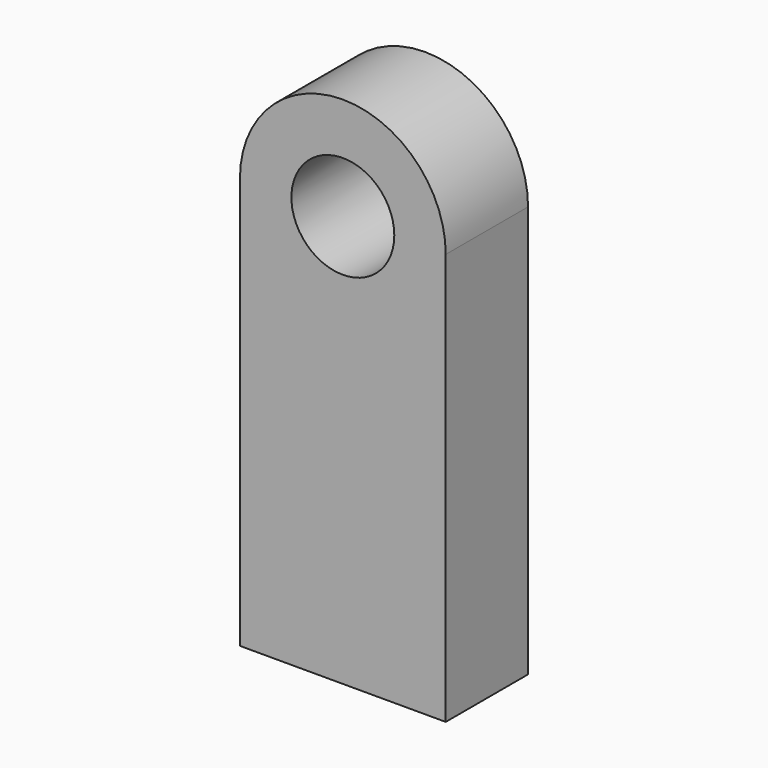
from build123d import *

# Parameters (mm, degrees)
F0_R     = 2.5
F1_DEPTH = 5


with BuildPart() as f1:
    # F0 (on Front) → F1 (new body)
    with BuildSketch(Plane.XZ):
        with BuildLine():
            Line((-5, 0), (-5, -20))
            Line((-5, -20), (5, -20))
            Line((5, -20), (5, 0))
            ThreePointArc((5, 0), (0, 5), (-5, 0))
        make_face()
        Circle(F0_R, mode=Mode.SUBTRACT)
    extrude(amount=F1_DEPTH)


solid = f1.part
